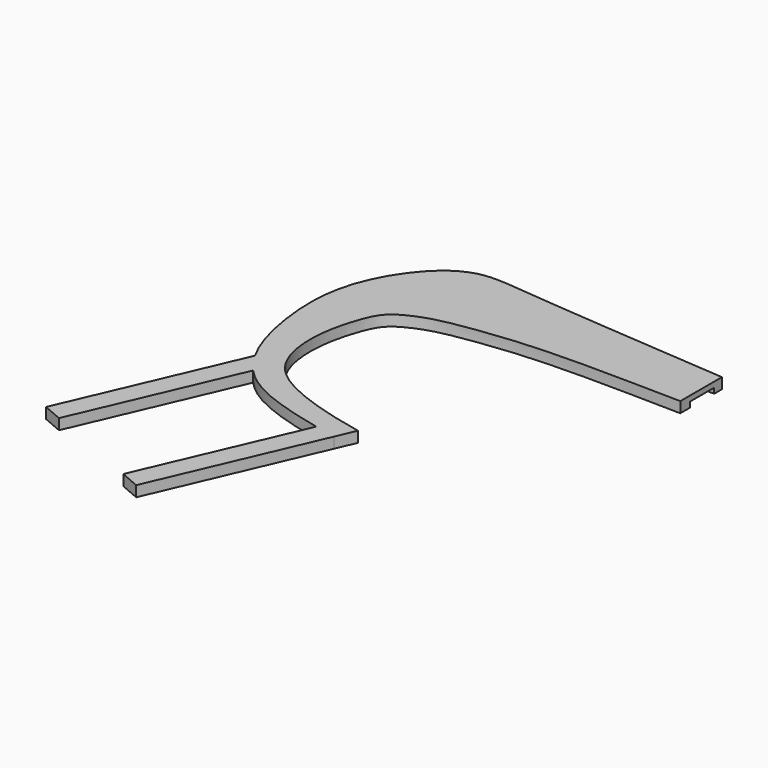
from build123d import *

# Parameters (mm, degrees)
F1_DEPTH = 3
F2_W     = 8.5
F2_H     = 1.5
F3_DEPTH = 60
F4_W     = 36
F4_H     = 1
F5_DEPTH = 1.5
F4_R     = 4
F4_R_2   = 2.5
F6_DEPTH = 1.5


with BuildPart() as f1:
    # F0 (on Top) → F1 (new body)
    with BuildSketch(Plane.XY):
        with BuildLine():
            Line((-97.5971001649, -8.6491760741), (-95.2646633374, -3.243172799))
            add(Edge.make_bspline(
                [(-95.2646633374, -3.243172799), (-98.574532783, -2.5484405432), (-105.9080007112, -0.9374808999), (-119.6320793514, 3.7261133355), (-127.8966629141, 10.4981850982), (-130.7955602279, 20.0916655854), (-130.4053995461, 30.1297752518), (-127.6670475504, 39.4662125345), (-124.8924134084, 44.2626432826), (-119.2951406396, 47.1109715275), (-113.3014325374, 49.0943311035), (-99.9372443546, 51.0483749083), (-82.944194219, 52.4452566866), (-61.1065907772, 51.9962960828), (-48.9197779827, 51.7804961863)],
                knots=[0, 0, 0, 0, 0.081391067, 0.1753097966, 0.2544212132, 0.3301545218, 0.4090033083, 0.485425653, 0.5423710265, 0.6017281651, 0.6638442011, 0.7520826863, 0.8549178005, 1, 1, 1, 1], degree=3))
            Line((-48.9197779827, 51.7804961863), (-48.9197779827, 66.3675506421))
            add(Edge.make_bspline(
                [(-135.1066137918, 10.4327042772), (-135.43407121, 11.0169079833), (-138.0734760018, 16.0546366824), (-141.2078344458, 27.3767410454), (-142.287612805, 47.3668739897), (-133.087210164, 64.394793082), (-121.8329362413, 72.6781441922), (-105.5205828124, 70.6050767122), (-71.5020111223, 68.0586471057), (-48.9197779827, 66.3675506421)],
                knots=[0.2825074418, 0.2825074418, 0.2825074418, 0.2825074418, 0.2960030581, 0.3968148217, 0.5097204734, 0.6197990481, 0.7086853513, 0.8057956779, 1, 1, 1, 1], degree=3))
            add(Edge.make_bspline(
                [(-131.0305960786, 4.7342447375), (-132.6138079469, 6.4633729142), (-133.9576962683, 8.3829663944), (-135.1066137918, 10.4327042772)],
                knots=[0.2351567051, 0.2351567051, 0.2351567051, 0.2351567051, 0.2825074418, 0.2825074418, 0.2825074418, 0.2825074418], degree=3))
            add(Edge.make_bspline(
                [(-103.6042511891, -7.4265989594), (-106.267812295, -6.8388586634), (-114.4404261479, -4.8406153845), (-124.7721316324, -1.1493121528), (-129.8850784698, 3.4831507975), (-131.0305960786, 4.7342447375)],
                knots=[0.0430431389, 0.0430431389, 0.0430431389, 0.0430431389, 0.0973147298, 0.2008965382, 0.2351567051, 0.2351567051, 0.2351567051, 0.2351567051], degree=3))
            add(Edge.make_bspline(
                [(-97.5971001649, -8.6491760741), (-99.4712810371, -8.2964337017), (-101.491764182, -7.8927394719), (-103.6042511891, -7.4265989594)],
                knots=[0, 0, 0, 0, 0.0430431389, 0.0430431389, 0.0430431389, 0.0430431389], degree=3))
        make_face()
        with BuildLine():
            Line((-117.0531037089, -53.7433100877), (-97.5971001649, -8.6491760741))
            add(Edge.make_bspline(
                [(-97.5971001649, -8.6491760741), (-99.4712810371, -8.2964337017), (-101.491764182, -7.8927394719), (-103.6042511891, -7.4265989594)],
                knots=[0, 0, 0, 0, 0.0430431389, 0.0430431389, 0.0430431389, 0.0430431389], degree=3))
            Line((-103.6042511891, -7.4265989594), (-122.5622095949, -51.3663893199))
            Line((-122.5622095949, -51.3663893199), (-117.0531037089, -53.7433100877))
        make_face()
        with BuildLine():
            add(Edge.make_bspline(
                [(-131.0305960786, 4.7342447375), (-132.6138079469, 6.4633729142), (-133.9576962683, 8.3829663944), (-135.1066137918, 10.4327042772)],
                knots=[0.2351567051, 0.2351567051, 0.2351567051, 0.2351567051, 0.2825074418, 0.2825074418, 0.2825074418, 0.2825074418], degree=3))
            Line((-135.1066137918, 10.4327042772), (-155.6168449111, -37.1048647131))
            Line((-155.6168449111, -37.1048647131), (-150.1077390251, -39.4817854809))
            Line((-150.1077390251, -39.4817854809), (-131.0305960786, 4.7342447375))
        make_face()
    extrude(amount=F1_DEPTH)

    # F2 (on face) → F3 (cut)
    with BuildSketch(Plane.YZ.offset(-48.9197779827)):
        with Locations((59.4175506421, 0.75)):
            Rectangle(F2_W, F2_H)
    extrude(amount=-F3_DEPTH, mode=Mode.SUBTRACT)

    # F4 (on face) → F5 (cut)
    with BuildSketch(Plane(origin=(0, 0, 0), x_dir=(1, 0, 0), z_dir=(0, 0, -1))):
        with Locations((-90.9197779827, -54.6675506421)):
            Rectangle(F4_W, F4_H)
        with Locations((-90.9197779827, -64.1675506421)):
            Rectangle(F4_W, F4_H)
    extrude(amount=-F5_DEPTH, mode=Mode.SUBTRACT)

    # F4 (on face) → F6 (join)
    with BuildSketch(Plane(origin=(0, 0, 0), x_dir=(1, 0, 0), z_dir=(0, 0, -1))):
        with Locations((-128.9197779827, -51.6675506421)):
            Circle(F4_R)
        with Locations((-134.9197779827, -34.1675506421)):
            Circle(F4_R_2)
    extrude(amount=F6_DEPTH)


solid = f1.part
